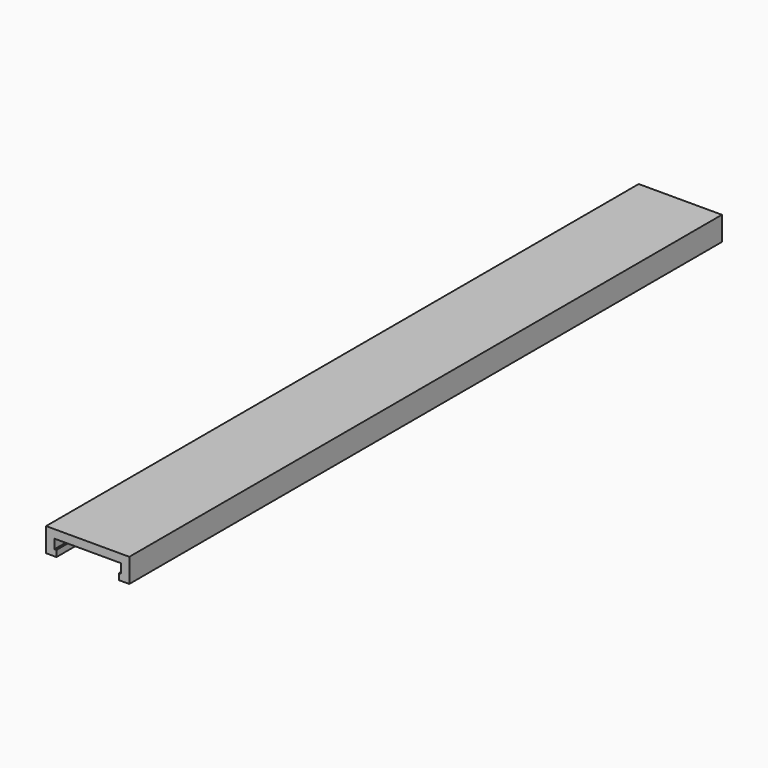
from build123d import *

# Parameters (mm, degrees)
F1_DEPTH = 178


with BuildPart() as f1:
    # F0 (on Front) → F1 (new body)
    with BuildSketch(Plane.XZ):
        Polygon((10, 0), (0, 0), (0, -2), (8, -2), (8, -4.25), (7.5, -4.25), (7.5, -5.75), (10, -5.75), align=None)
    extrude(amount=F1_DEPTH)

    # F2: F1 across plane


with BuildPart() as f1_1:
    add(f1.part)
    add(f1.part.mirror(Plane.YZ))


solid = f1_1.part
